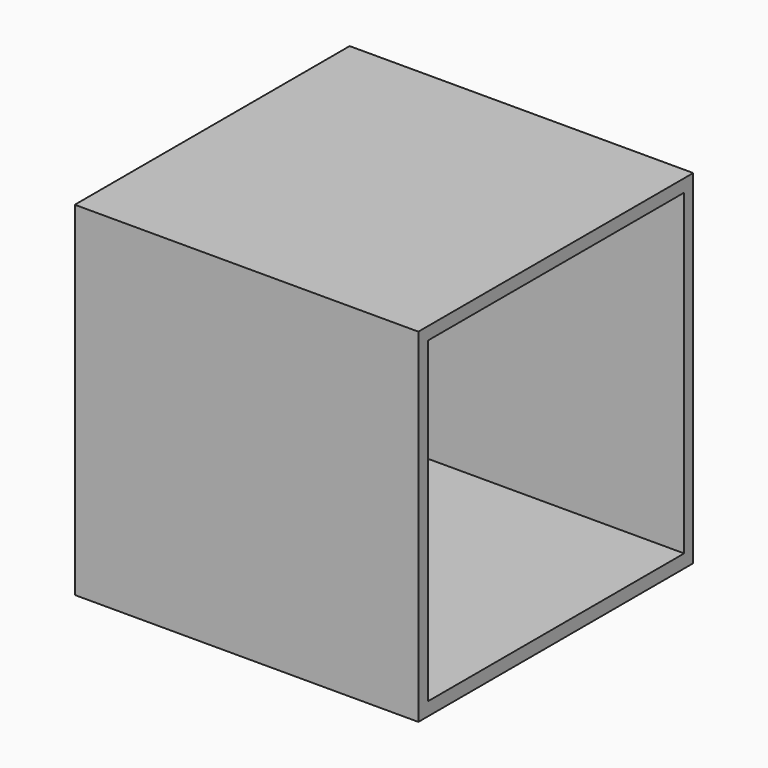
from build123d import *

# Parameters (mm, degrees)
F0_W     = 50.8
F0_H     = 50.8
F1_DEPTH = 50.8
F2_W     = 46.3804
F2_H     = 46.7614
F3_DEPTH = 44.45
F4_W     = 47.35487
F4_H     = 46.960247
F5_DEPTH = 44.45


with BuildPart() as f1:
    # F0 (on Front) → F1 (new body)
    with BuildSketch(Plane.XZ):
        with Locations((25.4, -25.4)):
            Rectangle(F0_W, F0_H)
    extrude(amount=F1_DEPTH)

    # F2 (on Right) → F3 (cut)
    with BuildSketch(Plane.YZ):
        with Locations((-25.459287, -25.454011)):
            Rectangle(F2_W, F2_H)
    extrude(amount=-F3_DEPTH, mode=Mode.SUBTRACT)

    # F4 (on face) → F5 (cut)
    with BuildSketch(Plane.YZ.offset(50.8)):
        with Locations((-25.354586, -25.354588)):
            Rectangle(F4_W, F4_H)
    extrude(amount=-F5_DEPTH, mode=Mode.SUBTRACT)


solid = f1.part
